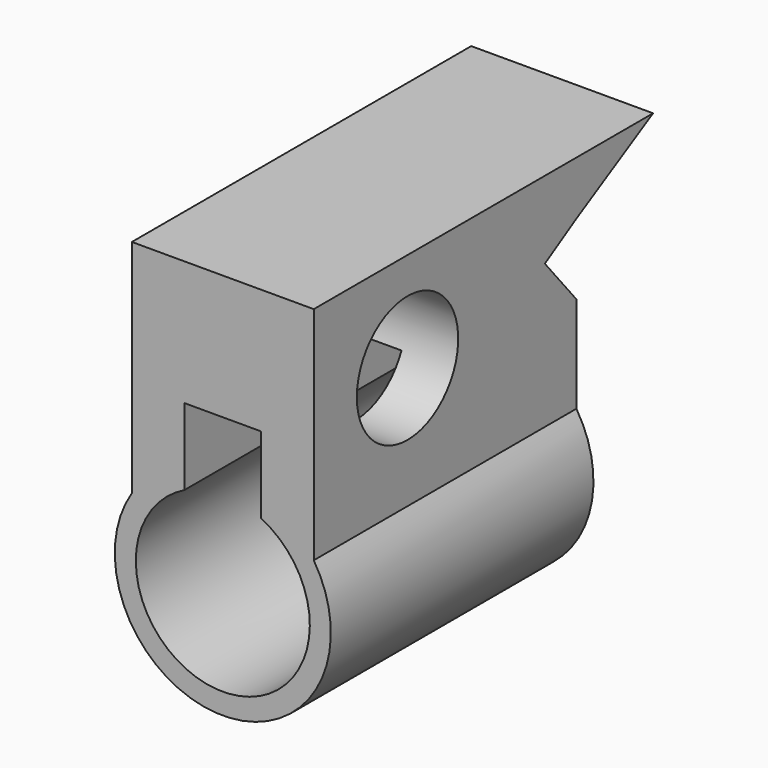
from build123d import *

# Parameters (mm, degrees)
F0_R     = 13.25
F1_DEPTH = 50
F2_R     = 9.65
F3_DEPTH = 30.301
F5_DEPTH = 30.301
F7_DEPTH = 27.7
F8_W     = 11.7
F8_H     = 11.66135
F9_DEPTH = 50.001


with BuildPart() as f1:
    # F0 (on Front) → F1 (new body)
    with BuildSketch(Plane.XZ):
        with BuildLine():
            Line((-13.85, 42.55), (-13.85, 8.87581))
            ThreePointArc((-13.85, 8.87581), (0, -16.45), (13.85, 8.87581))
            Line((13.85, 8.87581), (13.85, 42.55))
            Line((13.85, 42.55), (-13.85, 42.55))
        make_face()
        Circle(F0_R, mode=Mode.SUBTRACT)
    extrude(amount=F1_DEPTH)

    # F2 (on face) → F3 (cut, through all)
    with BuildSketch(Plane(origin=(-13.85, 0, 0), x_dir=(0, -1, 0), z_dir=(-1, 0, 0))):
        with Locations((32.15, 27.4)):
            Circle(F2_R)
    extrude(amount=-F3_DEPTH, mode=Mode.SUBTRACT)

    # F4 (on face) → F5 (cut, through all)
    with BuildSketch(Plane(origin=(-13.85, 0, 0), x_dir=(0, -1, 0), z_dir=(-1, 0, 0))):
        Polygon((0, 23.55), (6, 30.757681), (0, 34.363233), align=None)
    extrude(amount=-F5_DEPTH, mode=Mode.SUBTRACT)

    # F6 (on face) → F7 (join)
    with BuildSketch(Plane(origin=(-13.85, 0, 0), x_dir=(0, -1, 0), z_dir=(-1, 0, 0))):
        Polygon((-14.600857, 42.55), (0, 34.363233), (0, 42.55), align=None)
    extrude(amount=-F7_DEPTH)

    # F8 (on face) → F9 (cut, through all)
    with BuildSketch(Plane(origin=(0, 0, 0), x_dir=(-1, 0, 0), z_dir=(0, 1, 0))):
        with Locations((0, 17.719325)):
            Rectangle(F8_W, F8_H)
        with BuildLine():
            ThreePointArc((13.25, 0), (11.248889, 7.001785), (5.85, 11.88865))
            Line((5.85, 11.88865), (-5.85, 11.88865))
            ThreePointArc((-5.85, 11.88865), (-7.001785, -11.248889), (13.25, 0))
        make_face()
    extrude(amount=-F9_DEPTH, mode=Mode.SUBTRACT)


solid = f1.part
